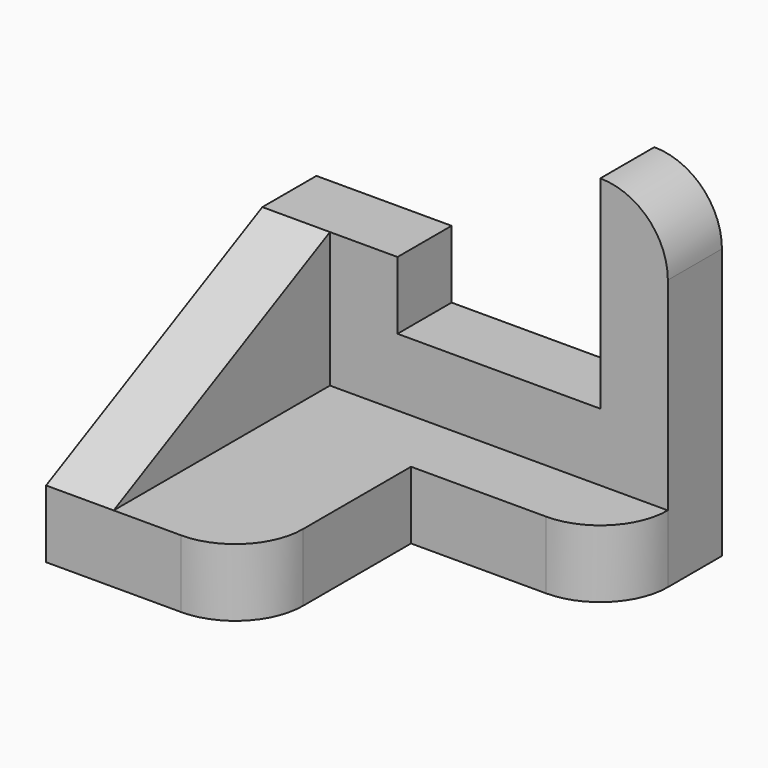
from build123d import *

# Parameters (mm, degrees)
F0_W      = 10
F0_H      = 20
F1_DEPTH  = 50
F0_W_2    = 30
F0_H_2    = 10
F2_DEPTH  = 10
F5_DEPTH  = 10
F7_DEPTH  = 10
F9_DEPTH  = 25
F11_DEPTH = 25


with BuildPart() as f1:
    # F0 (on Front) → F1 (new body)
    with BuildSketch(Plane.XZ):
        with Locations((5, 20)):
            Rectangle(F0_W, F0_H)
        Polygon((0, 10), (0, 0), (30, 0), (30, 10), (10, 10), align=None)
    extrude(amount=F1_DEPTH)

    # F0 (on Front) → F2 (join)
    with BuildSketch(Plane.XZ):
        Polygon((0, 10), (0, 0), (30, 0), (30, 10), (10, 10), align=None)
        with Locations((45, 5)):
            Rectangle(F0_W_2, F0_H_2)
        with Locations((5, 20)):
            Rectangle(F0_W, F0_H)
        with BuildLine():
            Line((10, 10), (30, 10))
            Line((30, 10), (60, 10))
            Line((60, 10), (60, 40))
            ThreePointArc((60, 40), (57.0710678119, 47.0710678119), (50, 50))
            Line((50, 50), (50, 20))
            Line((50, 20), (20, 20))
            Line((20, 20), (20, 30))
            Line((20, 30), (10, 30))
            Line((10, 30), (10, 10))
        make_face()
    extrude(amount=F2_DEPTH)

    # F4 (on face) → F5 (join)
    with BuildSketch(Plane.XY.offset(10)):
        with BuildLine():
            Line((30, -20), (50, -20))
            ThreePointArc((50, -20), (57.0710678119, -17.0710678119), (60, -10))
            Line((60, -10), (30, -10))
            Line((30, -10), (30, -20))
        make_face()
    extrude(amount=-F5_DEPTH)

    # F6 (on face) → F7 (join)
    with BuildSketch(Plane.XY.offset(10)):
        with BuildLine():
            Line((10, -20), (10, -50))
            Line((10, -50), (20, -50))
            ThreePointArc((20, -50), (27.0710678119, -47.0710678119), (30, -40))
            Line((30, -40), (30, -20))
            Line((30, -20), (10, -20))
        make_face()
        with BuildLine():
            ThreePointArc((30, -40), (27.0710678119, -47.0710678119), (20, -50))
            Line((20, -50), (30, -50))
            Line((30, -50), (30, -40))
        make_face()
    extrude(amount=-F7_DEPTH)

    # F8 (on face) → F9 (cut)
    with BuildSketch(Plane.XY.offset(10)):
        with BuildLine():
            Line((20, -50), (30, -50))
            Line((30, -50), (30, -40))
            ThreePointArc((30, -40), (27.0710678119, -47.0710678119), (20, -50))
        make_face()
    extrude(amount=-F9_DEPTH, mode=Mode.SUBTRACT)

    # F10 (on face) → F11 (cut)
    with BuildSketch(Plane.YZ.offset(10)):
        Polygon((-50, 10), (-10, 30), (-50, 30), align=None)
    extrude(amount=-F11_DEPTH, mode=Mode.SUBTRACT)


solid = f1.part
